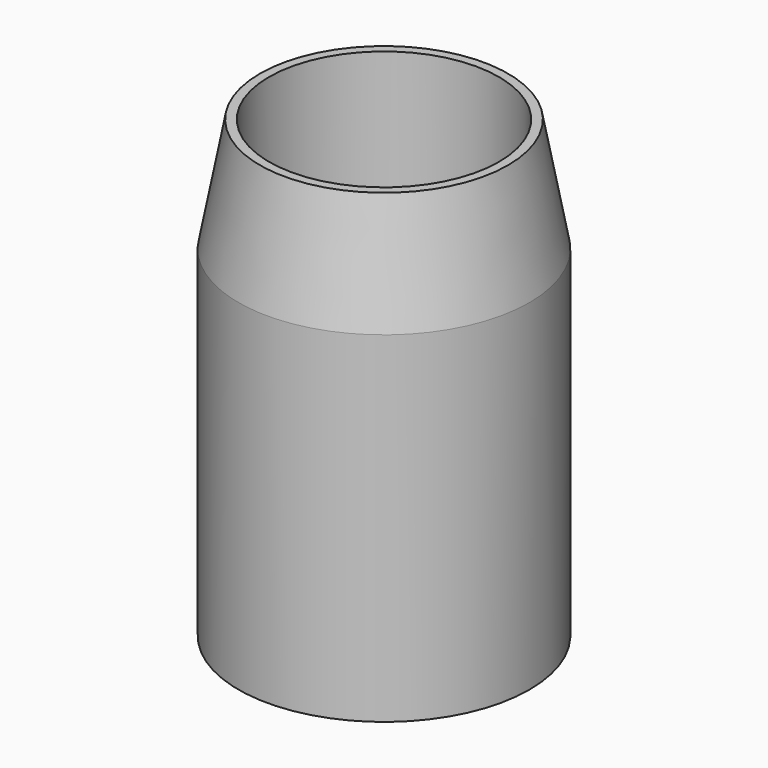
from build123d import *


with BuildPart() as f1:
    # F0 (on Front) → F1 (revolve)
    with BuildSketch(Plane.XZ):
        with BuildLine():
            Line((2.4257, 8.89), (2.2479, 8.89))
            Line((2.2479, 8.89), (2.2479, 1.397))
            ThreePointArc((2.2479, 1.397), (2.210703, 1.307197), (2.1209, 1.27))
            Line((2.1209, 1.27), (0, 1.27))
            Line((0, 1.27), (0, 0))
            Line((0, 0), (2.8448, 0))
            Line((2.8448, 0), (2.8448, 6.662339))
            Line((2.8448, 6.662339), (2.4257, 8.89))
        make_face()
    revolve(axis=Axis((0, 0, 7.564645), (0, 0, 1)))


solid = f1.part
